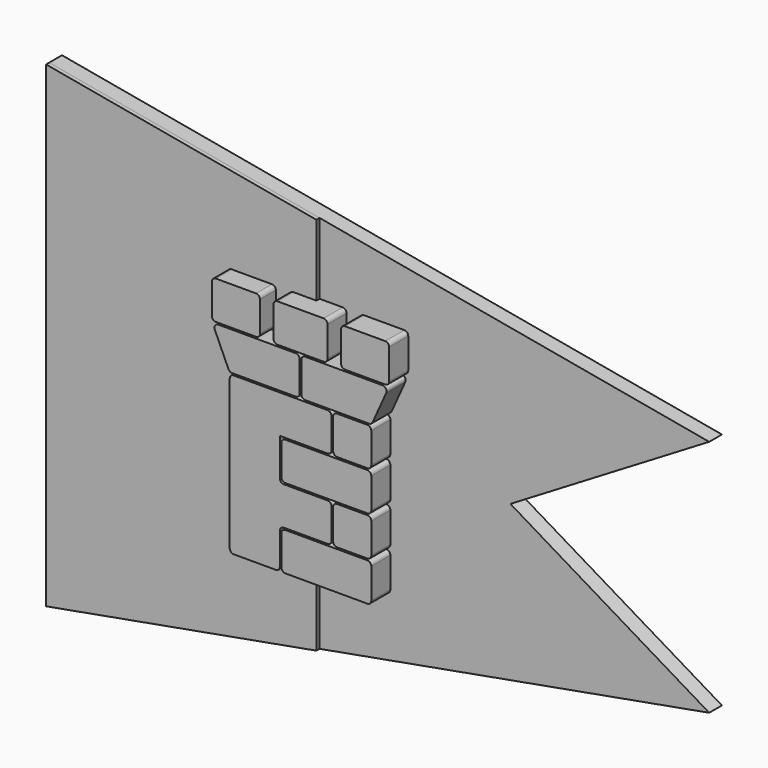
from build123d import *

# Parameters (mm, degrees)
F2_DEPTH = 25.4
F5_DEPTH = 12.7
F6_DEPTH = 10.16


with BuildPart() as f2:
    # F1 (on face) → F2 (new body)
    with BuildSketch(Plane.XZ):
        with BuildLine():
            ThreePointArc((17.272, 76.708), (19.068051, 77.451949), (19.812, 79.248))
            Line((19.812, 79.248), (19.812, 98.552))
            ThreePointArc((19.812, 98.552), (19.068051, 100.348051), (17.272, 101.092))
            Line((17.272, 101.092), (0, 101.092))
            Line((0, 101.092), (-42.672, 101.092))
            ThreePointArc((-42.672, 101.092), (-44.468051, 100.348051), (-45.212, 98.552))
            Line((-45.212, 98.552), (-45.212, 76.2))
            Line((-45.212, 76.2), (-45.212, 50.8))
            Line((-45.212, 50.8), (-45.212, 25.4))
            Line((-45.212, 25.4), (-45.212, 3.048))
            ThreePointArc((-45.212, 3.048), (-44.468051, 1.251949), (-42.672, 0.508))
            Line((-42.672, 0.508), (-15.748, 0.508))
            ThreePointArc((-15.748, 0.508), (-13.951949, 1.251949), (-13.208, 3.048))
            Line((-13.208, 3.048), (-13.208, 23.368))
            ThreePointArc((-13.208, 23.368), (-12.464051, 25.164051), (-10.668, 25.908))
            Line((-10.668, 25.908), (17.272, 25.908))
            ThreePointArc((17.272, 25.908), (19.068051, 26.651949), (19.812, 28.448))
            Line((19.812, 28.448), (19.812, 47.752))
            ThreePointArc((19.812, 47.752), (19.068051, 49.548051), (17.272, 50.292))
            Line((17.272, 50.292), (-10.668, 50.292))
            ThreePointArc((-10.668, 50.292), (-12.464051, 51.035949), (-13.208, 52.832))
            Line((-13.208, 52.832), (-13.208, 76.708))
            Line((-13.208, 76.708), (17.272, 76.708))
        make_face()
        with BuildLine():
            Line((42.672, 24.892), (15.24, 24.892))
            Line((15.24, 24.892), (-9.652, 24.892))
            ThreePointArc((-9.652, 24.892), (-11.448051, 24.148051), (-12.192, 22.352))
            Line((-12.192, 22.352), (-12.192, 3.048))
            ThreePointArc((-12.192, 3.048), (-11.448051, 1.251949), (-9.652, 0.508))
            Line((-9.652, 0.508), (42.672, 0.508))
            ThreePointArc((42.672, 0.508), (44.468051, 1.251949), (45.212, 3.048))
            Line((45.212, 3.048), (45.212, 22.352))
            ThreePointArc((45.212, 22.352), (44.468051, 24.148051), (42.672, 24.892))
        make_face()
        with BuildLine():
            ThreePointArc((45.212, 47.752), (44.468051, 49.548051), (42.672, 50.292))
            Line((42.672, 50.292), (23.368, 50.292))
            ThreePointArc((23.368, 50.292), (21.571949, 49.548051), (20.828, 47.752))
            Line((20.828, 47.752), (20.828, 28.448))
            ThreePointArc((20.828, 28.448), (21.571949, 26.651949), (23.368, 25.908))
            Line((23.368, 25.908), (42.672, 25.908))
            ThreePointArc((42.672, 25.908), (44.468051, 26.651949), (45.212, 28.448))
            Line((45.212, 28.448), (45.212, 47.752))
        make_face()
        with BuildLine():
            ThreePointArc((42.672, 51.308), (44.468051, 52.051949), (45.212, 53.848))
            Line((45.212, 53.848), (45.212, 73.152))
            ThreePointArc((45.212, 73.152), (44.468051, 74.948051), (42.672, 75.692))
            Line((42.672, 75.692), (25.4, 75.692))
            Line((25.4, 75.692), (-9.652, 75.692))
            ThreePointArc((-9.652, 75.692), (-11.448051, 74.948051), (-12.192, 73.152))
            Line((-12.192, 73.152), (-12.192, 53.848))
            ThreePointArc((-12.192, 53.848), (-11.448051, 52.051949), (-9.652, 51.308))
            Line((-9.652, 51.308), (15.24, 51.308))
            Line((15.24, 51.308), (42.672, 51.308))
        make_face()
        with BuildLine():
            ThreePointArc((45.212, 98.552), (44.468051, 100.348051), (42.672, 101.092))
            Line((42.672, 101.092), (23.368, 101.092))
            ThreePointArc((23.368, 101.092), (21.571949, 100.348051), (20.828, 98.552))
            Line((20.828, 98.552), (20.828, 79.248))
            ThreePointArc((20.828, 79.248), (21.571949, 77.451949), (23.368, 76.708))
            Line((23.368, 76.708), (42.672, 76.708))
            ThreePointArc((42.672, 76.708), (44.468051, 77.451949), (45.212, 79.248))
            Line((45.212, 79.248), (45.212, 98.552))
        make_face()
        with BuildLine():
            ThreePointArc((43.749207, 102.108), (45.128354, 102.515032), (46.065488, 103.605674))
            Line((46.065488, 103.605674), (54.752288, 122.909674))
            ThreePointArc((54.752288, 122.909674), (54.568976, 125.331147), (52.436007, 126.492))
            Line((52.436007, 126.492), (25.4, 126.492))
            Line((25.4, 126.492), (15.24, 126.492))
            Line((15.24, 126.492), (3.048, 126.492))
            ThreePointArc((3.048, 126.492), (1.251949, 125.748051), (0.508, 123.952))
            Line((0.508, 123.952), (0.508, 104.648))
            ThreePointArc((0.508, 104.648), (1.251949, 102.851949), (3.048, 102.108))
            Line((3.048, 102.108), (25.4, 102.108))
            Line((25.4, 102.108), (43.749207, 102.108))
        make_face()
        with BuildLine():
            ThreePointArc((-3.048, 102.108), (-1.251949, 102.851949), (-0.508, 104.648))
            Line((-0.508, 104.648), (-0.508, 123.952))
            ThreePointArc((-0.508, 123.952), (-1.251949, 125.748051), (-3.048, 126.492))
            Line((-3.048, 126.492), (-15.24, 126.492))
            Line((-15.24, 126.492), (-25.4, 126.492))
            Line((-25.4, 126.492), (-52.436007, 126.492))
            ThreePointArc((-52.436007, 126.492), (-54.568976, 125.331147), (-54.752288, 122.909674))
            Line((-54.752288, 122.909674), (-46.065488, 103.605674))
            ThreePointArc((-46.065488, 103.605674), (-45.128354, 102.515032), (-43.749207, 102.108))
            Line((-43.749207, 102.108), (-3.048, 102.108))
        make_face()
        with BuildLine():
            ThreePointArc((-54.102, 151.892), (-55.898051, 151.148051), (-56.642, 149.352))
            Line((-56.642, 149.352), (-56.642, 130.048))
            ThreePointArc((-56.642, 130.048), (-55.898051, 128.251949), (-54.102, 127.508))
            Line((-54.102, 127.508), (-28.448, 127.508))
            ThreePointArc((-28.448, 127.508), (-26.651949, 128.251949), (-25.908, 130.048))
            Line((-25.908, 130.048), (-25.908, 149.352))
            ThreePointArc((-25.908, 149.352), (-26.651949, 151.148051), (-28.448, 151.892))
            Line((-28.448, 151.892), (-54.102, 151.892))
        make_face()
        with BuildLine():
            ThreePointArc((-17.272, 130.048), (-16.528051, 128.251949), (-14.732, 127.508))
            Line((-14.732, 127.508), (0, 127.508))
            Line((0, 127.508), (14.732, 127.508))
            ThreePointArc((14.732, 127.508), (16.528051, 128.251949), (17.272, 130.048))
            Line((17.272, 130.048), (17.272, 149.352))
            ThreePointArc((17.272, 149.352), (16.528051, 151.148051), (14.732, 151.892))
            Line((14.732, 151.892), (-14.732, 151.892))
            ThreePointArc((-14.732, 151.892), (-16.528051, 151.148051), (-17.272, 149.352))
            Line((-17.272, 149.352), (-17.272, 130.048))
        make_face()
        with BuildLine():
            ThreePointArc((28.448, 151.892), (26.651949, 151.148051), (25.908, 149.352))
            Line((25.908, 149.352), (25.908, 130.048))
            ThreePointArc((25.908, 130.048), (26.651949, 128.251949), (28.448, 127.508))
            Line((28.448, 127.508), (54.102, 127.508))
            ThreePointArc((54.102, 127.508), (55.898051, 128.251949), (56.642, 130.048))
            Line((56.642, 130.048), (56.642, 149.352))
            ThreePointArc((56.642, 149.352), (55.898051, 151.148051), (54.102, 151.892))
            Line((54.102, 151.892), (28.448, 151.892))
        make_face()
    extrude(amount=F2_DEPTH)


with BuildPart() as f5:
    # F4 (on face) → F5 (new body)
    with BuildSketch(Plane.XZ):
        Polygon((0, 197.385542), (-172.72, 228.6), (-172.72, -76.2), (0, -44.985542), (0, 25.4), (20.32, 25.4), (20.32, 50.8), (-12.7, 50.8), (-12.7, 76.2), (20.32, 76.2), (20.32, 101.6), (0, 101.6), (0, 127), align=None)
    extrude(amount=F5_DEPTH)


with BuildPart() as f6:
    # F3 (on Front) → F6 (new body)
    with BuildSketch(Plane.XZ):
        Polygon((248.92, 152.4), (-172.72, 228.6), (-172.72, -76.2), (248.92, 0), (121.92, 76.2), align=None)
    extrude(amount=F6_DEPTH)


solid = Compound([f2.part, f5.part, f6.part])
